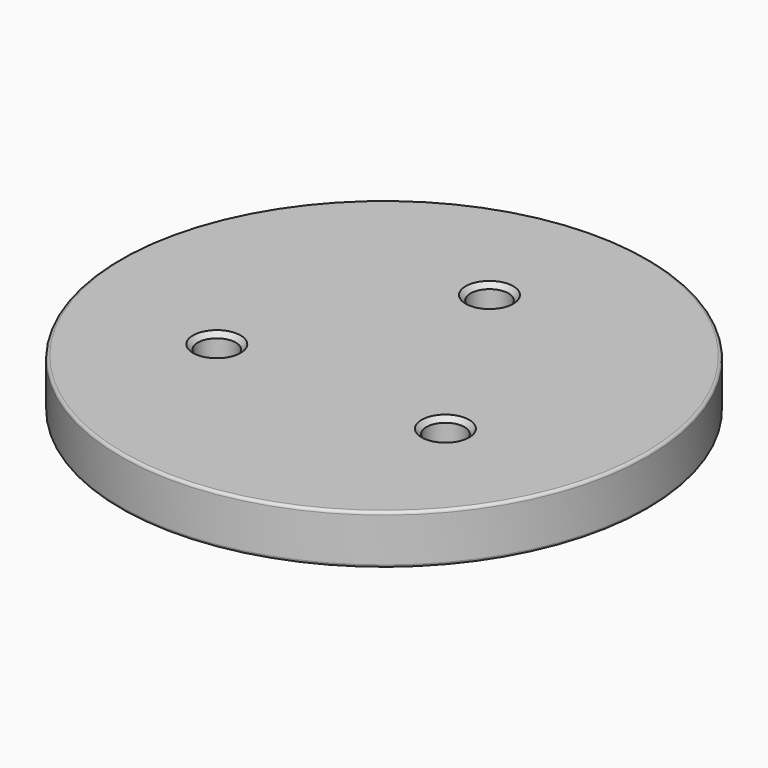
from build123d import *

# Parameters (mm, degrees)
F0_R     = 13.855
F0_R_2   = 1
F1_DEPTH = 2.6
F2_R     = 0.15
F3_SIZE  = 0.25


with BuildPart() as f1:
    # F0 (on Top) → F1 (new body)
    with BuildSketch(Plane.XY):
        Circle(F0_R)
        with Locations((-6, -3.475305)):
            Circle(F0_R_2, mode=Mode.SUBTRACT)
        with Locations((6, -3.475305)):
            Circle(F0_R_2, mode=Mode.SUBTRACT)
        with Locations((0, 6.917)):
            Circle(F0_R_2, mode=Mode.SUBTRACT)
    extrude(amount=F1_DEPTH)

    # F2
    f2_edges = [f1.edges().sort_by_distance(p)[0] for p in [
        (-13.855, 0, 2.6),
        (-13.855, 0, 0),
    ]]
    fillet(f2_edges, radius=F2_R)

    # F3
    f3_edges = [f1.edges().sort_by_distance(p)[0] for p in [
        (-1, 6.917, 2.6),
        (5, -3.475305, 2.6),
        (5, -3.475305, 0),
        (-1, 6.917, 0),
        (-7, -3.475305, 2.6),
        (-7, -3.475305, 0),
    ]]
    chamfer(f3_edges, length=F3_SIZE)


solid = f1.part
